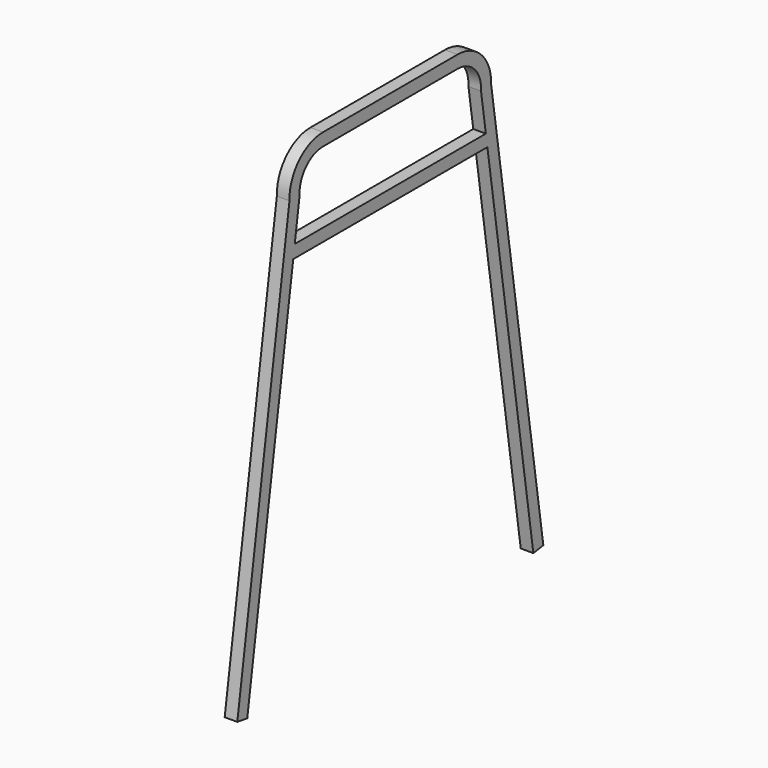
from build123d import *

# Parameters (mm, degrees)
F1_DEPTH = 15


with BuildPart() as f1:
    # F0 (on Right) → F1 (new body)
    with BuildSketch(Plane.YZ):
        with BuildLine():
            ThreePointArc((-100, 82.879485), (-135.930106, 67.650557), (-149.973133, 31.240583))
            Line((-149.973133, 31.240583), (-227.556466, -482.939178))
            Line((-227.556466, -482.939178), (-212.724353, -485.177159))
            Line((-212.724353, -485.177159), (-144.362209, -32.110378))
            Line((-144.362209, -32.110378), (144.362209, -32.110378))
            Line((144.362209, -32.110378), (212.724353, -485.177159))
            Line((212.724353, -485.177159), (227.556466, -482.939178))
            Line((227.556466, -482.939178), (149.973133, 31.240583))
            ThreePointArc((149.973133, 31.240583), (135.930106, 67.650557), (100, 82.879485))
            Line((100, 82.879485), (0, 82.879485))
            Line((0, 82.879485), (-100, 82.879485))
        make_face()
        with BuildLine():
            Line((-142.098895, -17.110378), (-134.91779, 30.482052))
            ThreePointArc((-134.91779, 30.482052), (-125.582317, 56.765564), (-100, 67.879481))
            Line((-100, 67.879481), (0, 67.879481))
            Line((0, 67.879481), (100, 67.879481))
            ThreePointArc((100, 67.879481), (125.582317, 56.765564), (134.91779, 30.482052))
            Line((134.91779, 30.482052), (142.098895, -17.110378))
            Line((142.098895, -17.110378), (-142.098895, -17.110378))
        make_face(mode=Mode.SUBTRACT)
    extrude(amount=F1_DEPTH)


solid = f1.part
